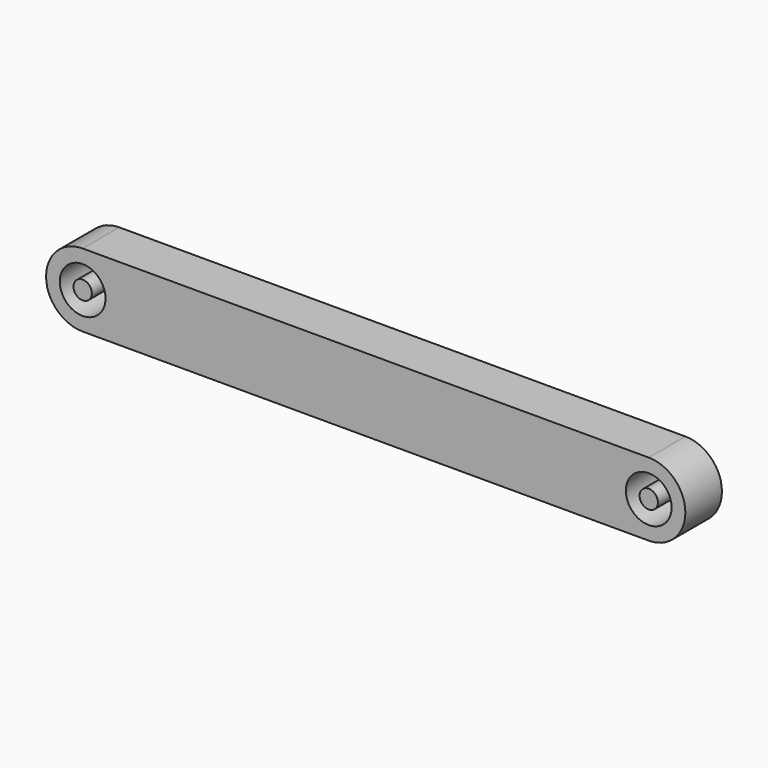
from build123d import *

# Parameters (mm, degrees)
F0_R     = 2.5
F0_R_2   = 1
F1_DEPTH = 5


with BuildPart() as f1:
    # F0 (on Front) → F1 (new body)
    with BuildSketch(Plane.XZ):
        with BuildLine():
            Line((61.9, 4), (0, 4))
            ThreePointArc((0, 4), (-4, 0), (0, -4))
            Line((0, -4), (61.9, -4))
            ThreePointArc((61.9, -4), (65.9, 0), (61.9, 4))
        make_face()
        Circle(F0_R, mode=Mode.SUBTRACT)
        with BuildLine():
            ThreePointArc((64.4, 0), (61.9, -2.5), (59.4, 0))
            ThreePointArc((59.4, 0), (61.9, 2.5), (64.4, 0))
        make_face(mode=Mode.SUBTRACT)
        with BuildLine():
            ThreePointArc((62.9, 0), (61.9, 1), (60.9, 0))
            ThreePointArc((60.9, 0), (61.9, -1), (62.9, 0))
        make_face()
        Circle(F0_R_2)
    extrude(amount=F1_DEPTH)


solid = f1.part
